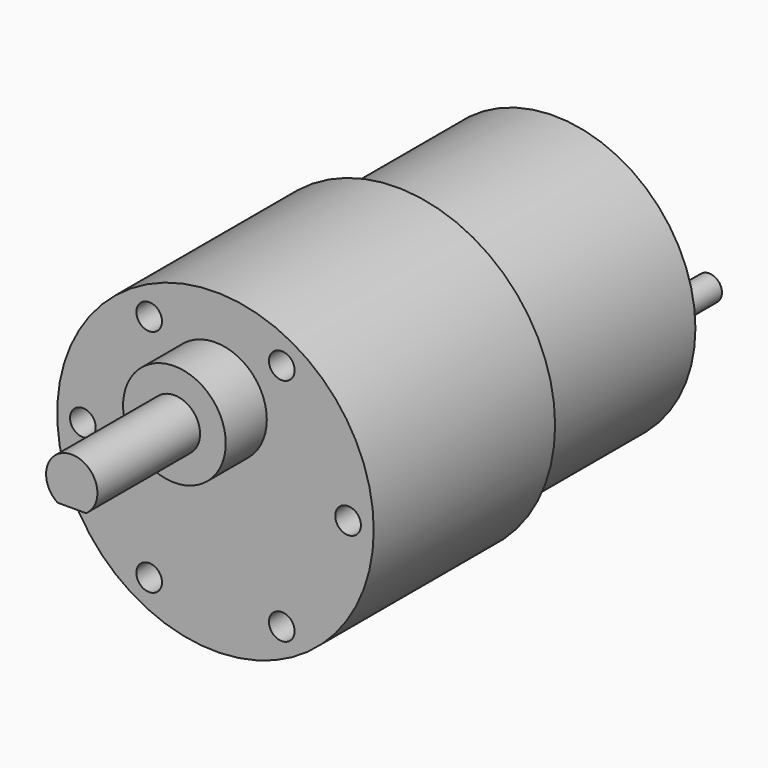
from build123d import *

# Parameters (mm, degrees)
F0_R      = 18.5
F0_R_2    = 16.5
F1_DEPTH  = 26.5
F2_DEPTH  = 23
F3_R      = 6
F3_R_2    = 3
F4_DEPTH  = 6
F5_DEPTH  = 21
F7_DEPTH  = 12
F3_R_3    = 1.5
F8_DEPTH  = 10
F10_COUNT = 6
F11_R     = 3.75
F11_R_2   = 1.5
F12_DEPTH = 3
F13_DEPTH = 7


with BuildPart() as f1:
    # F0 (on Front) → F1 (new body)
    with BuildSketch(Plane.XZ):
        Circle(F0_R)
        Circle(F0_R_2, mode=Mode.SUBTRACT)
        Circle(F0_R_2)
    extrude(amount=F1_DEPTH)

    # F0 (on Front) → F2 (join)
    with BuildSketch(Plane.XZ):
        Circle(F0_R_2)
    extrude(amount=-F2_DEPTH)

    # F3 (on face) → F4 (join)
    with BuildSketch(Plane.XZ.offset(26.5)):
        with Locations((0, 7.3)):
            Circle(F3_R)
        with Locations((0, 7.3)):
            Circle(F3_R_2, mode=Mode.SUBTRACT)
    extrude(amount=F4_DEPTH)

    # F5 (add): a face of the model
    f5_faces = [f1.faces().sort_by_distance(p)[0] for p in [
        (0, -26.5, 7.3),
    ]]
    extrude(f5_faces, amount=F5_DEPTH)

    # F6 (on face) → F7 (cut)
    with BuildSketch(Plane.XZ.offset(47.5)):
        with BuildLine():
            Line((1.6583123952, 4.8), (-1.6583123952, 4.8))
            ThreePointArc((-1.6583123952, 4.8), (0, 4.3), (1.6583123952, 4.8))
        make_face()
    extrude(amount=-F7_DEPTH, mode=Mode.SUBTRACT)

    # F10: F8 ×6 about axis
    f10_axis = Axis((0, -5.8839749545, 0), (0, 1, 0))


with BuildPart() as f8:
    # F3 (on face) → F8 (new body)
    with BuildSketch(Plane.XZ.offset(26.5)):
        with Locations((-15.5, 0)):
            Circle(F3_R_3)
    extrude(amount=-F8_DEPTH)


with BuildPart() as f1_1:
    add(f1.part)
    for i in range(1, F10_COUNT):
        add(f8.part.rotate(f10_axis, i * 360 / F10_COUNT), mode=Mode.SUBTRACT)

    # F10#seed: cut F8
    add(f8.part, mode=Mode.SUBTRACT)

    # F11 (on face) → F12 (join)
    with BuildSketch(Plane(origin=(0, 23, 0), x_dir=(-1, 0, 0), z_dir=(0, 1, 0))):
        Circle(F11_R)
        with Locations((-12.5, 0)):
            Circle(F11_R_2)
        with Locations((12.5, 0)):
            Circle(F11_R_2)
    extrude(amount=F12_DEPTH)

    # F11 (on face) → F13 (join)
    with BuildSketch(Plane(origin=(0, 23, 0), x_dir=(-1, 0, 0), z_dir=(0, 1, 0))):
        with Locations((-12.5, 0)):
            Circle(F11_R_2)
        with Locations((12.5, 0)):
            Circle(F11_R_2)
    extrude(amount=F13_DEPTH)


solid = f1_1.part
